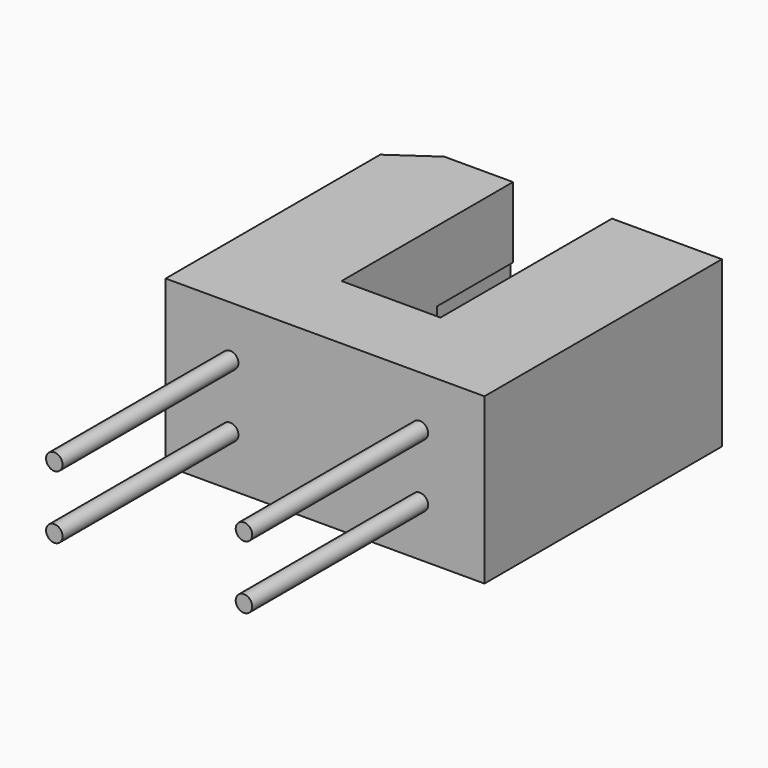
from build123d import *

# Parameters (mm, degrees)
F1_DEPTH      = 6
F2_W          = 3.45
F2_H          = 0.85
F3_DEPTH      = 0.1
F3_DEPTH_BACK = 3.79
F4_R          = 0.3
F5_DEPTH      = 8


with BuildPart() as f1:
    # F0 (on Top) → F1 (new body)
    with BuildSketch(Plane.XY):
        Polygon((-98.6413434148, -69.7821304202), (-98.6413434148, -79.5412585139), (-87.0413434148, -79.5412585139), (-87.0413434148, -68.7412585139), (-91.0413434148, -68.7412585139), (-91.0413434148, -76.5412585139), (-94.6413434148, -76.5412585139), (-94.6413434148, -68.7412585139), (-97.1413434148, -68.7412585139), align=None)
    extrude(amount=F1_DEPTH)

    # F2 (on face) → F3 (cut, two sides)
    with BuildSketch(Plane.YZ.offset(-94.6413434148)) as f3_sk:
        with Locations((-70.4662585139, 3)):
            Rectangle(F2_W, F2_H)
    extrude(amount=-F3_DEPTH, mode=Mode.SUBTRACT)
    extrude(f3_sk.sketch, amount=F3_DEPTH_BACK, mode=Mode.SUBTRACT)

    # F4 (on face) → F5 (join)
    with BuildSketch(Plane.XZ.offset(79.5412585139)):
        with Locations((-96.2913434148, 4.15)):
            Circle(F4_R)
        with Locations((-96.2913434148, 1.85)):
            Circle(F4_R)
        with Locations((-89.3913434148, 4.15)):
            Circle(F4_R)
        with Locations((-89.3913434148, 1.85)):
            Circle(F4_R)
    extrude(amount=F5_DEPTH)


solid = f1.part
